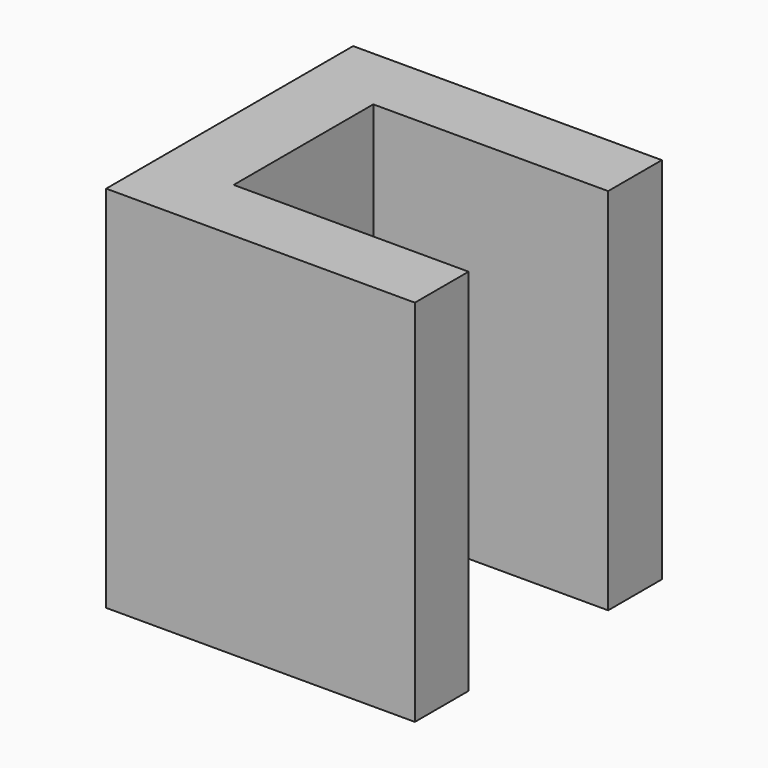
from build123d import *

# Parameters (mm, degrees)
F0_W     = 1168.4
F0_H     = 1397
F1_DEPTH = 279.4
F2_W     = 254
F2_H     = 1397
F3_DEPTH = 889


with BuildPart() as f1:
    # F0 (on Right) → F1 (new body)
    with BuildSketch(Plane.YZ):
        Rectangle(F0_W, F0_H)
    extrude(amount=F1_DEPTH)

    # F2 (on face) → F3 (join)
    with BuildSketch(Plane.YZ.offset(279.4)):
        with Locations((-457.2, 0)):
            Rectangle(F2_W, F2_H)
        with Locations((457.2, 0)):
            Rectangle(F2_W, F2_H)
    extrude(amount=F3_DEPTH)


solid = f1.part
